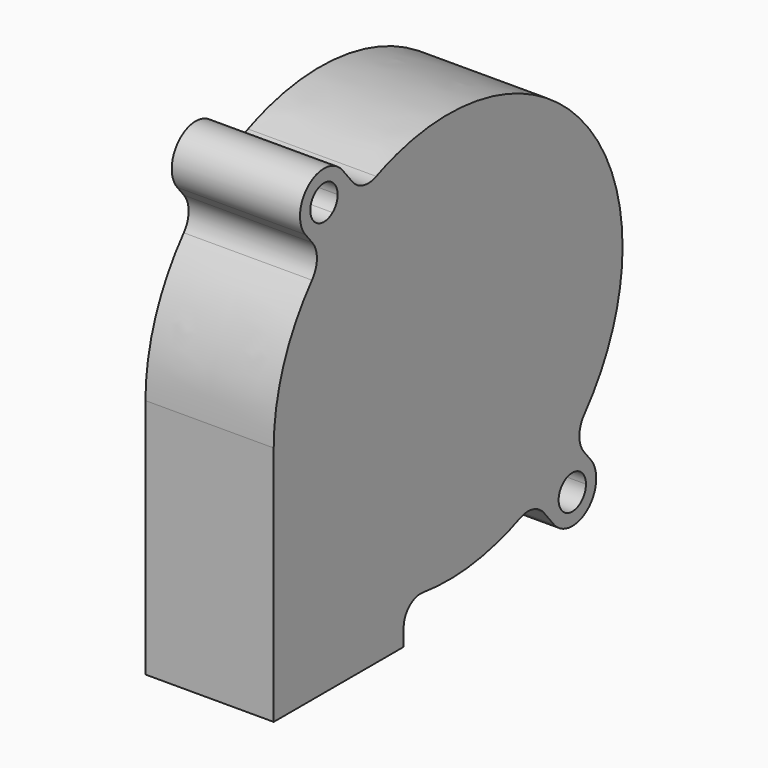
from build123d import *

# Parameters (mm, degrees)
F1_DEPTH = 15


with BuildPart() as f1:
    # F0 (on Right) → F1 (new body)
    with BuildSketch(Plane.YZ):
        with BuildLine():
            ThreePointArc((-6.5, -26.2072056582), (-5.6494517179, -24.3369017185), (-3.6808400649, -23.7486523094))
            add(Edge.make_bspline(
                [(-3.6808400649, -23.7486523094), (3.702462975, -24.7623321152), (10.5017708959, -21.8702115954)],
                knots=[4.5675362851, 4.5675362851, 4.5675362851, 5.1368548975, 5.1368548975, 5.1368548975], degree=2, weights=[1, 0.9597573856, 1]))
            ThreePointArc((10.5017708959, -21.8702115954), (12.3966749561, -21.7186938586), (14.0022277918, -22.736445849))
            Line((14.0022277918, -22.736445849), (15.4408135596, -24.502934041))
            ThreePointArc((15.4408135596, -24.502934041), (20.364858657, -25.0066997399), (20.8686243559, -20.0826546426))
            Line((20.8686243559, -20.0826546426), (19.8598903656, -18.8439960082))
            ThreePointArc((19.8598903656, -18.8439960082), (19.1862718938, -16.9170117814), (19.9015815348, -15.005111634))
            add(Edge.make_bspline(
                [(19.9015815348, -15.005111634), (32.4719972623, -0.2364846057), (20.1459131328, 14.7134567688), (7.8198290034, 29.6633981433), (-10.5017708959, 21.8702115954)],
                knots=[5.6077809056, 5.6077809056, 5.6077809056, 6.9431142283, 6.9431142283, 8.2784475511, 8.2784475511, 8.2784475511], degree=2, weights=[1, 0.7852685014, 1, 0.7852685014, 1]))
            ThreePointArc((-10.5017708959, 21.8702115954), (-12.3966749561, 21.7186938586), (-14.0022277918, 22.736445849))
            Line((-14.0022277918, 22.736445849), (-15.4408135596, 24.502934041))
            ThreePointArc((-15.4408135596, 24.502934041), (-20.364858657, 25.0066997399), (-20.8686243559, 20.0826546426))
            Line((-20.8686243559, 20.0826546426), (-19.8598903656, 18.8439960082))
            ThreePointArc((-19.8598903656, 18.8439960082), (-19.1862718938, 16.9170117814), (-19.9015815348, 15.005111634))
            add(Edge.make_bspline(
                [(-19.9015815348, 15.005111634), (-25.5, 8.4276876209), (-25.5, 0)],
                knots=[2.466188252, 2.466188252, 2.466188252, 3.1415926536, 3.1415926536, 3.1415926536], degree=2, weights=[1, 0.9435184624, 1]))
            Line((-25.5, 0), (-25.5, -28.2072056582))
            Line((-25.5, -28.2072056582), (-6.5, -28.2072056582))
            Line((-6.5, -28.2072056582), (-6.5, -26.2072056582))
        make_face()
        with BuildLine():
            ThreePointArc((16.8917819868, -20.7419912571), (19.0132427076, -20.4864341974), (20.1547189578, -22.2927943418))
            ThreePointArc((20.1547189578, -22.2927943418), (17.2961952079, -24.0991544861), (16.8917819868, -20.7419912571))
        make_face(mode=Mode.SUBTRACT)
        with BuildLine():
            ThreePointArc((-16.8917819868, 20.7419912571), (-19.9610791021, 23.1513180916), (-16.1547189578, 22.2927943418))
            ThreePointArc((-16.1547189578, 22.2927943418), (-16.3483588135, 21.4342705919), (-16.8917819868, 20.7419912571))
        make_face(mode=Mode.SUBTRACT)
    extrude(amount=F1_DEPTH)


solid = f1.part
